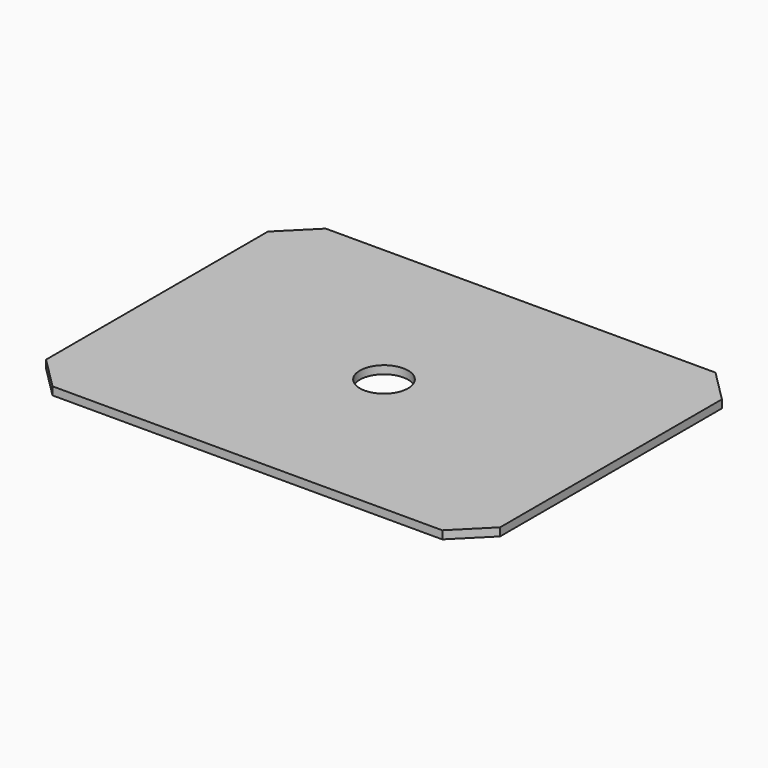
from build123d import *

# Parameters (mm, degrees)
F0_W     = 717.55
F0_H     = 539.75
F1_DEPTH = 12.7
F2_SIZE  = 50.8
F4_D     = 76.2


with BuildPart() as f1:
    # F0 (on Top) → F1 (new body)
    with BuildSketch(Plane.XY):
        with Locations((91.337793, 114.312262)):
            Rectangle(F0_W, F0_H)
    extrude(amount=F1_DEPTH)

    # F2
    f2_edges = [f1.edges().sort_by_distance(p)[0] for p in [
        (450.112793, 384.187262, 6.35),
        (450.112793, -155.562738, 6.35),
        (-267.437207, -155.562738, 6.35),
        (-267.437207, 384.187262, 6.35),
    ]]
    chamfer(f2_edges, length=F2_SIZE)

    # F4 (through all)
    with Locations(Plane(origin=(0, 0, 0), x_dir=(1, 0, 0), z_dir=(0, 0, -1))):
        with Locations((91.337793, -114.312262)):
            Hole(F4_D / 2)


solid = f1.part
